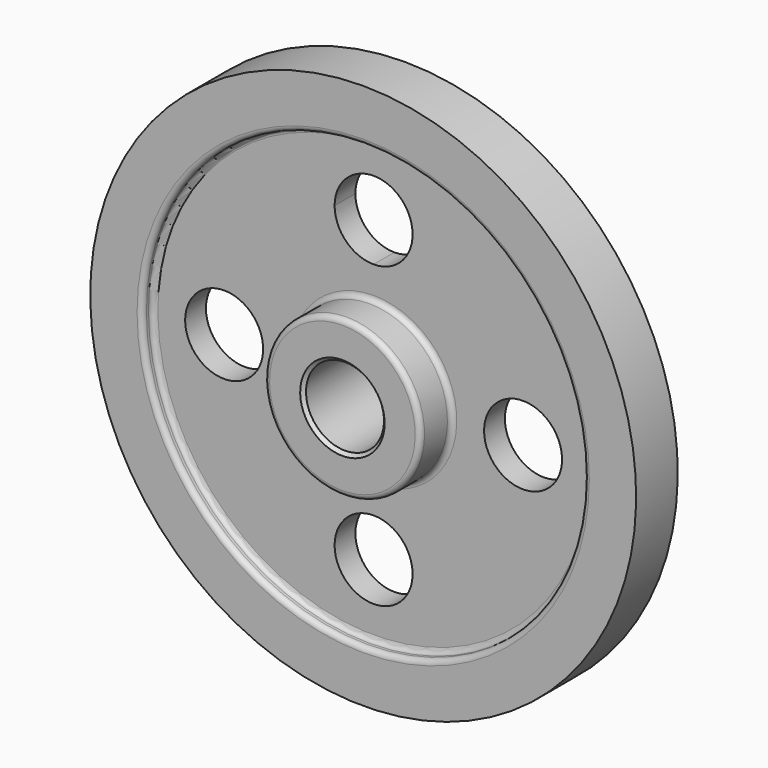
from build123d import *

# Parameters (mm, degrees)
F0_W     = 19.05
F0_H     = 19.05
F0_W_2   = 6.35
F0_H_2   = 25.4
F2_R     = 19.05
F3_DEPTH = 25.4
F4_DEPTH = 25.4
F5_R     = 2.54
F6_SIZE  = 1.5875


with BuildPart() as f1:
    # F0 (on Right) → F1 (revolve)
    with BuildSketch(Plane.YZ):
        with Locations((-15.875, 28.575)):
            Rectangle(F0_W, F0_H)
        Polygon((25.4, 38.1), (6.35, 38.1), (6.35, 107.95), (12.7, 107.95), (12.7, 133.35), (0, 133.35), (-6.35, 133.35), (-6.35, 107.95), (-6.35, 38.1), (-6.35, 19.05), (0, 19.05), (25.4, 19.05), align=None)
        with Locations((-9.525, 120.65)):
            Rectangle(F0_W_2, F0_H_2)
    revolve(axis=Axis((0, 38.252398, 0), (0, 1, 0)))

    # F2 (on face) → F3 (cut)
    with BuildSketch(Plane(origin=(0, 6.35, 0), x_dir=(-1, 0, 0), z_dir=(0, 1, 0))):
        with BuildLine():
            ThreePointArc((19.05, 73.025), (-13.470384, 86.495384), (0, 53.975))
            ThreePointArc((0, 53.975), (13.470384, 59.554616), (19.05, 73.025))
        make_face()
        with Locations((-73.025, 0)):
            Circle(F2_R)
        with Locations((0, -73.025)):
            Circle(F2_R)
    extrude(amount=-F3_DEPTH, mode=Mode.SUBTRACT)

    # F2 (on face) → F4 (cut)
    with BuildSketch(Plane(origin=(0, 6.35, 0), x_dir=(-1, 0, 0), z_dir=(0, 1, 0))):
        with Locations((73.025, 0)):
            Circle(F2_R)
    extrude(amount=-F4_DEPTH, mode=Mode.SUBTRACT)

    # F5
    f5_edges = [f1.edges().sort_by_distance(p)[0] for p in [
        (0, -6.35, -38.1),
        (0, -25.4, -38.1),
        (0, -6.35, -107.95),
        (0, -12.7, -107.95),
        (0, 6.35, -38.1),
        (0, 25.4, -38.1),
        (0, 6.35, -107.95),
    ]]
    fillet(f5_edges, radius=F5_R)

    # F6
    f6_edges = [f1.edges().sort_by_distance(p)[0] for p in [
        (0, -25.4, -19.05),
        (0, 25.4, -19.05),
    ]]
    chamfer(f6_edges, length=F6_SIZE)


solid = f1.part
